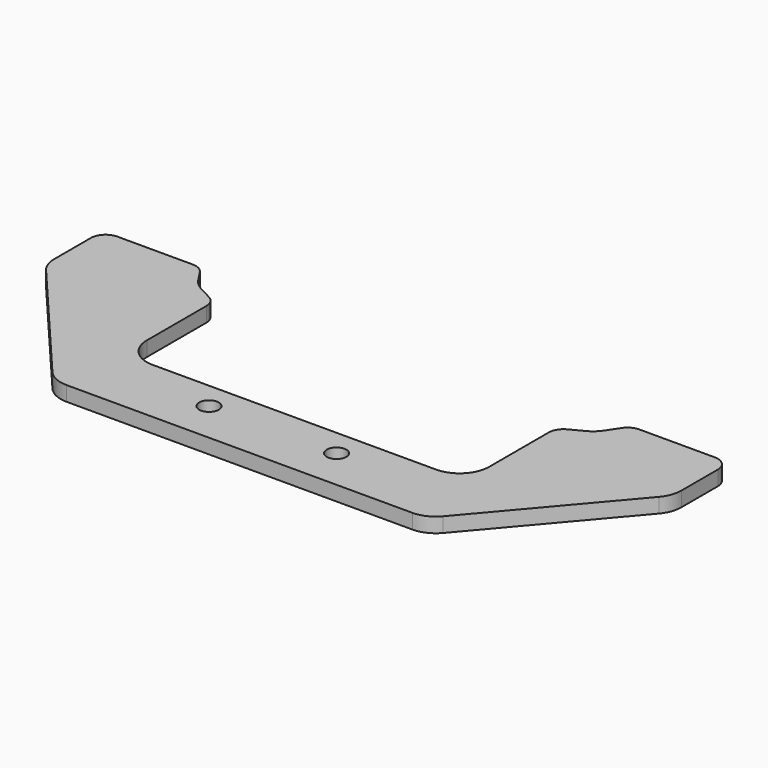
from build123d import *

# Parameters (mm, degrees)
F0_R     = 2
F1_DEPTH = 3


with BuildPart() as f1:
    # F0 (on Top) → F1 (new body)
    with BuildSketch(Plane.XY):
        with BuildLine():
            Line((-35.222202, 0), (0, 0))
            Line((0, 0), (35.222202, 0))
            ThreePointArc((35.222202, 0), (37.742959, 0.555205), (39.797202, 2.118071))
            Line((39.797202, 2.118071), (62.454529, 28.820584))
            ThreePointArc((62.454529, 28.820584), (63.512024, 30.634906), (63.879529, 32.702513))
            Line((63.879529, 32.702513), (63.879529, 42))
            ThreePointArc((63.879529, 42), (63.000849, 44.12132), (60.879529, 45))
            Line((60.879529, 45), (45.493925, 45))
            ThreePointArc((45.493925, 45), (44.0723, 44.641777), (42.990182, 43.652656))
            Line((42.990182, 43.652656), (41.424434, 41.280578))
            ThreePointArc((41.424434, 41.280578), (40.443151, 40.137329), (39.208001, 39.274578))
            Line((39.208001, 39.274578), (36.484002, 37.843138))
            ThreePointArc((36.484002, 37.843138), (35.311788, 36.738841), (34.879529, 35.187483))
            Line((34.879529, 35.187483), (34.879529, 20))
            ThreePointArc((34.879529, 20), (33.122169, 15.757359), (28.879529, 14))
            Line((28.879529, 14), (0, 14))
            Line((0, 14), (-28.879529, 14))
            ThreePointArc((-28.879529, 14), (-33.122169, 15.757359), (-34.879529, 20))
            Line((-34.879529, 20), (-34.879529, 35.187483))
            ThreePointArc((-34.879529, 35.187483), (-35.311788, 36.738841), (-36.484002, 37.843138))
            Line((-36.484002, 37.843138), (-39.208001, 39.274578))
            ThreePointArc((-39.208001, 39.274578), (-40.443151, 40.137329), (-41.424434, 41.280578))
            Line((-41.424434, 41.280578), (-42.990182, 43.652656))
            ThreePointArc((-42.990182, 43.652656), (-44.0723, 44.641777), (-45.493925, 45))
            Line((-45.493925, 45), (-60.879529, 45))
            ThreePointArc((-60.879529, 45), (-63.000849, 44.12132), (-63.879529, 42))
            Line((-63.879529, 42), (-63.879529, 32.702513))
            ThreePointArc((-63.879529, 32.702513), (-63.512024, 30.634906), (-62.454529, 28.820584))
            Line((-62.454529, 28.820584), (-39.797202, 2.118071))
            ThreePointArc((-39.797202, 2.118071), (-37.742959, 0.555205), (-35.222202, 0))
        make_face()
        with Locations((-13, 8.5)):
            Circle(F0_R, mode=Mode.SUBTRACT)
        with Locations((13, 8.5)):
            Circle(F0_R, mode=Mode.SUBTRACT)
    extrude(amount=F1_DEPTH)


solid = f1.part
